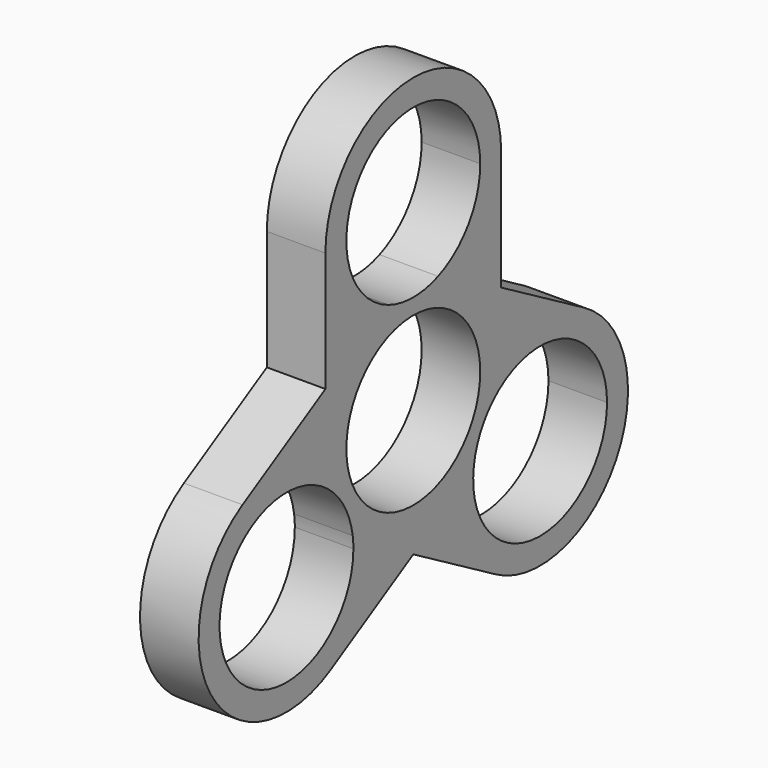
from build123d import *

# Parameters (mm, degrees)
F0_R     = 11.425
F1_DEPTH = 8


with BuildPart() as f1:
    # F0 (on Right) → F1 (new body)
    with BuildSketch(Plane.YZ):
        with BuildLine():
            ThreePointArc((-208.9400686967, 14.3893875), (-211.1121227902, 34.458577976), (-193.2788525343, 25))
            ThreePointArc((-193.2788525343, 25), (-195.2452745583, 18.5917297441), (-200.4676363719, 14.3893875))
            ThreePointArc((-200.4676363719, 14.3893875), (-198.7941996503, 13.7868053874), (-197.2038525343, 12.9903810568))
            Line((-197.2038525343, 12.9903810568), (-189.7038525343, 8.6602540378))
            Line((-189.7038525343, 8.6602540378), (-189.7038525343, 25))
            ThreePointArc((-189.7038525343, 25), (-204.7038525343, 40), (-219.7038525343, 25))
            Line((-219.7038525343, 25), (-219.7038525343, 8.6602540378))
            Line((-219.7038525343, 8.6602540378), (-212.2038525343, 12.9903810568))
            ThreePointArc((-212.2038525343, 12.9903810568), (-210.6135054183, 13.7868053874), (-208.9400686967, 14.3893875))
        make_face()
        with BuildLine():
            ThreePointArc((-219.7038525343, 0), (-217.6942335911, 7.5), (-212.2038525343, 12.9903810568))
            Line((-212.2038525343, 12.9903810568), (-219.7038525343, 8.6602540378))
            Line((-219.7038525343, 8.6602540378), (-219.7038525343, 0))
        make_face()
        with BuildLine():
            Line((-189.7038525343, 8.6602540378), (-197.2038525343, 12.9903810568))
            ThreePointArc((-197.2038525343, 12.9903810568), (-191.7134714775, 7.5), (-189.7038525343, 0))
            Line((-189.7038525343, 0), (-189.7038525343, 8.6602540378))
        make_face()
        with BuildLine():
            Line((-219.7038525343, 0), (-219.7038525343, 8.6602540378))
            Line((-219.7038525343, 8.6602540378), (-233.8544876289, 0.4903810568))
            ThreePointArc((-233.8544876289, 0.4903810568), (-239.3448686857, -20), (-218.8544876289, -25.4903810568))
            Line((-218.8544876289, -25.4903810568), (-204.7038525343, -17.3205080757))
            Line((-204.7038525343, -17.3205080757), (-212.2038525343, -12.9903810568))
            ThreePointArc((-212.2038525343, -12.9903810568), (-213.6887497948, -12.0113122188), (-215.047319573, -10.8633645626))
            ThreePointArc((-215.047319573, -10.8633645626), (-214.9589836901, -11.6795641521), (-214.9294876289, -12.5))
            ThreePointArc((-214.9294876289, -12.5), (-236.6335014528, -17.487233683), (-219.2835357354, -3.5260229374))
            ThreePointArc((-219.2835357354, -3.5260229374), (-219.5984026788, -1.7754931686), (-219.7038525343, 0))
        make_face()
        with BuildLine():
            Line((-189.7038525343, 8.6602540378), (-189.7038525343, 0))
            ThreePointArc((-189.7038525343, 0), (-189.8093023897, -1.7754931686), (-190.1241693332, -3.5260229374))
            ThreePointArc((-190.1241693332, -3.5260229374), (-178.0659837567, -2.2209861761), (-171.6282174397, -12.5))
            ThreePointArc((-171.6282174397, -12.5), (-183.8736532876, -23.8955039388), (-194.3603854956, -10.8633645626))
            ThreePointArc((-194.3603854956, -10.8633645626), (-195.7189552738, -12.0113122188), (-197.2038525343, -12.9903810568))
            Line((-197.2038525343, -12.9903810568), (-204.7038525343, -17.3205080757))
            Line((-204.7038525343, -17.3205080757), (-190.5532174397, -25.4903810568))
            ThreePointArc((-190.5532174397, -25.4903810568), (-170.0628363829, -20), (-175.5532174397, 0.4903810568))
            Line((-175.5532174397, 0.4903810568), (-189.7038525343, 8.6602540378))
        make_face()
        with BuildLine():
            Line((-212.2038525343, -12.9903810568), (-204.7038525343, -17.3205080757))
            Line((-204.7038525343, -17.3205080757), (-197.2038525343, -12.9903810568))
            ThreePointArc((-197.2038525343, -12.9903810568), (-204.7038525343, -15), (-212.2038525343, -12.9903810568))
        make_face()
        with BuildLine():
            ThreePointArc((-200.4676363719, 14.3893875), (-204.7038525343, 13.575), (-208.9400686967, 14.3893875))
            ThreePointArc((-208.9400686967, 14.3893875), (-210.6135054183, 13.7868053874), (-212.2038525343, 12.9903810568))
            ThreePointArc((-212.2038525343, 12.9903810568), (-217.6942335911, 7.5), (-219.7038525343, 0))
            ThreePointArc((-219.7038525343, 0), (-219.5984026788, -1.7754931686), (-219.2835357354, -3.5260229374))
            ThreePointArc((-219.2835357354, -3.5260229374), (-216.4601473907, -6.7875), (-215.047319573, -10.8633645626))
            ThreePointArc((-215.047319573, -10.8633645626), (-213.6887497948, -12.0113122188), (-212.2038525343, -12.9903810568))
            ThreePointArc((-212.2038525343, -12.9903810568), (-204.7038525343, -15), (-197.2038525343, -12.9903810568))
            ThreePointArc((-197.2038525343, -12.9903810568), (-195.7189552738, -12.0113122188), (-194.3603854956, -10.8633645626))
            ThreePointArc((-194.3603854956, -10.8633645626), (-192.9475576779, -6.7875), (-190.1241693332, -3.5260229374))
            ThreePointArc((-190.1241693332, -3.5260229374), (-189.8093023897, -1.7754931686), (-189.7038525343, 0))
            ThreePointArc((-189.7038525343, 0), (-191.7134714775, 7.5), (-197.2038525343, 12.9903810568))
            ThreePointArc((-197.2038525343, 12.9903810568), (-198.7941996503, 13.7868053874), (-200.4676363719, 14.3893875))
        make_face()
        with Locations((-204.7038525343, 0)):
            Circle(F0_R, mode=Mode.SUBTRACT)
    extrude(amount=F1_DEPTH)


solid = f1.part
